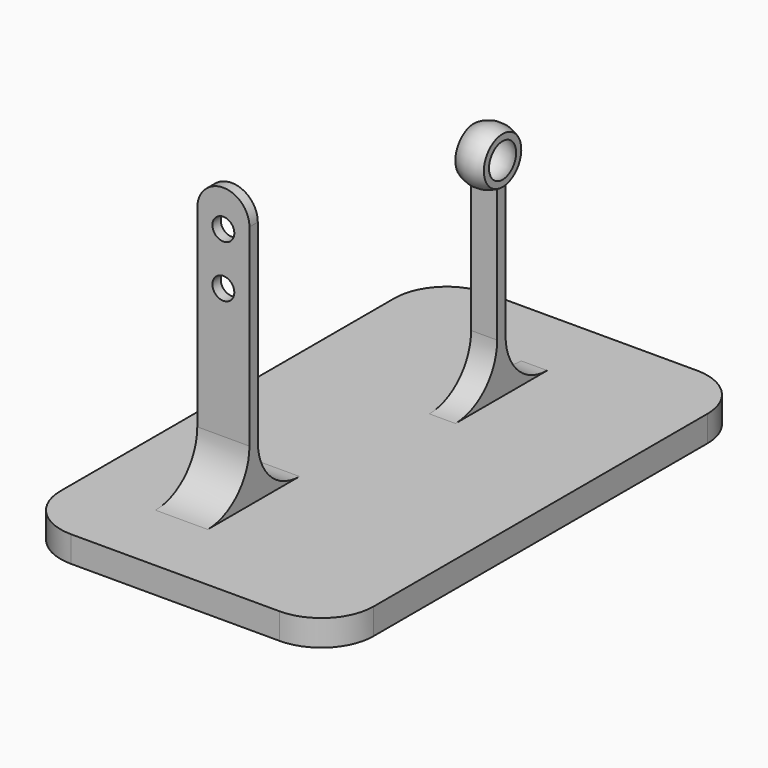
from build123d import *

# Parameters (mm, degrees)
SKETCH_W     = 60
SKETCH_H     = 100
PAD_DEPTH    = 5
SKETCH001_R  = 2.1
PAD001_DEPTH = 1
SKETCH002_W  = 5
SKETCH002_H  = 35.7
PAD002_DEPTH = 1
FILLET_R     = 10
FILLET001_R  = 10
FILLET002_R  = 10


with BuildPart() as part:
    # Sketch → Pad (new body)
    with BuildSketch(Plane.XY):
        Rectangle(SKETCH_W, SKETCH_H)
    extrude(amount=PAD_DEPTH)

    # Sketch001 (on DatumPlane) → Pad001 (join, symmetric)
    with BuildSketch(Plane.XZ.offset(25)):
        with BuildLine():
            Line((-5, 52), (-5, 5))
            Line((-5, 5), (-15, 5))
            Line((-15, 5), (-15, 52))
            ThreePointArc((-5, 52), (-10, 57), (-15, 52))
        make_face()
        with Locations((-10, 50)):
            Circle(SKETCH001_R, mode=Mode.SUBTRACT)
        with Locations((-10, 40)):
            Circle(SKETCH001_R, mode=Mode.SUBTRACT)
    extrude(amount=PAD001_DEPTH, both=True)

    # Sketch002 (on DatumPlane) → Pad002 (join, symmetric)
    with BuildSketch(Plane.XZ.offset(-25)):
        with Locations((0, 22.85)):
            Rectangle(SKETCH002_W, SKETCH002_H)
    extrude(amount=PAD002_DEPTH, both=True)

    # Sketch003 (on DatumPlane) → Revolution (revolve)
    with BuildSketch(Plane.XZ.offset(-25)):
        with BuildLine():
            ThreePointArc((2.731847, 48.255689), (0, 49.25), (-2.731847, 48.255689))
            Line((-2.731847, 49.483248), (-2.731847, 48.255689))
            ThreePointArc((2.731847, 49.483248), (0, 50.25), (-2.731847, 49.483248))
            Line((2.731847, 48.255689), (2.731847, 49.483248))
        make_face()
    revolve(axis=Axis((0, 25, 45), (1, 0, 0)))

    # Fillet
    fillet_edges = [part.edges().sort_by_distance(p)[0] for p in [
        (-10, -26, 5),
        (-10, -24, 5),
    ]]
    fillet(fillet_edges, radius=FILLET_R)

    # Fillet001
    fillet001_edges = [part.edges().sort_by_distance(p)[0] for p in [
        (0, 24, 5),
        (0, 26, 5),
    ]]
    fillet(fillet001_edges, radius=FILLET001_R)

    # Fillet002
    fillet002_edges = [part.edges().sort_by_distance(p)[0] for p in [
        (-30, -50, 2.5),
        (-30, 50, 2.5),
        (30, 50, 2.5),
        (30, -50, 2.5),
    ]]
    fillet(fillet002_edges, radius=FILLET002_R)


solid = part.part
